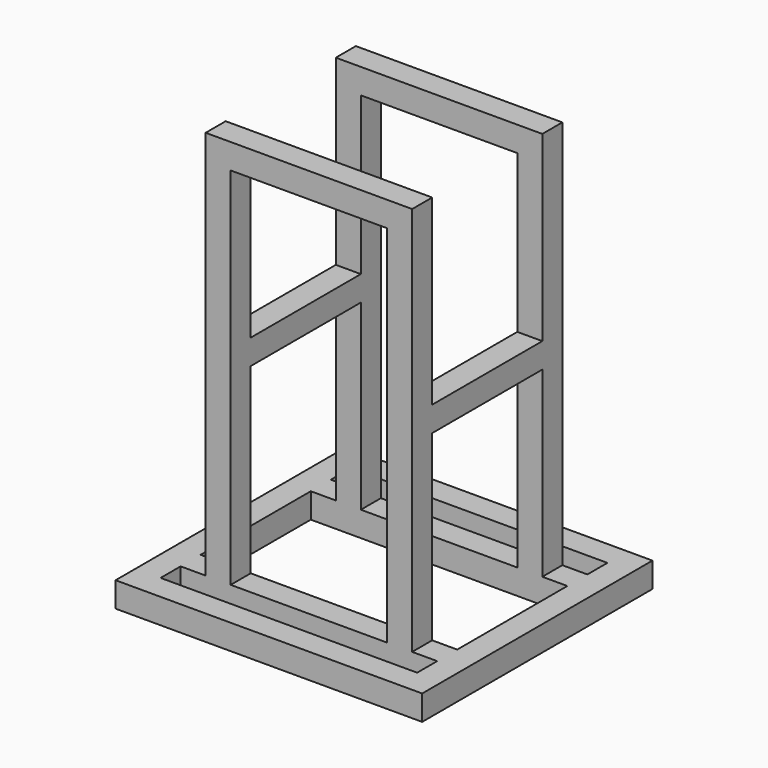
from build123d import *

# Parameters (mm, degrees)
F0_W     = 490
F0_H     = 460
F0_W_2   = 410
F0_H_2   = 40
F1_DEPTH = 40
F2_W     = 40
F2_H     = 40
F3_DEPTH = 623
F4_W     = 290
F4_H     = 40
F4_W_2   = 330
F5_DEPTH = 40
F6_W     = 220
F6_H     = 40
F7_DEPTH = 40
F8_W     = 220
F8_H     = 40
F9_DEPTH = 40


with BuildPart() as f1:
    # F0 (on Top) → F1 (new body)
    with BuildSketch(Plane.XY):
        Rectangle(F0_W, F0_H)
        Polygon((205, -150), (205, -190), (-205, -190), (-205, -150), (-205, -110), (-205, 110), (-205, 150), (-205, 190), (205, 190), (205, 150), (205, 110), (205, -110), align=None, mode=Mode.SUBTRACT)
        with Locations((0, 130)):
            Rectangle(F0_W_2, F0_H_2)
        with Locations((0, -130)):
            Rectangle(F0_W_2, F0_H_2)
    extrude(amount=F1_DEPTH)

    # F2 (on face) → F3 (join)
    with BuildSketch(Plane.XY.offset(40)):
        with Locations((-145, 130)):
            Rectangle(F2_W, F2_H)
        with Locations((145, 130)):
            Rectangle(F2_W, F2_H)
        with Locations((145, -130)):
            Rectangle(F2_W, F2_H)
        with Locations((-145, -130)):
            Rectangle(F2_W, F2_H)
    extrude(amount=F3_DEPTH)

    # F4 (on face) → F5 (join)
    with BuildSketch(Plane.XY.offset(663)):
        with Locations((-20, 130)):
            Rectangle(F4_W, F4_H)
        with Locations((0, -130)):
            Rectangle(F4_W_2, F4_H)
    extrude(amount=-F5_DEPTH)

    # F6 (on face) → F7 (join)
    with BuildSketch(Plane.YZ.offset(165)):
        with Locations((0, 351.5)):
            Rectangle(F6_W, F6_H)
    extrude(amount=-F7_DEPTH)

    # F8 (on face) → F9 (join)
    with BuildSketch(Plane(origin=(-165, 0, 0), x_dir=(0, -1, 0), z_dir=(-1, 0, 0))):
        with Locations((0, 351.5)):
            Rectangle(F8_W, F8_H)
    extrude(amount=-F9_DEPTH)


solid = f1.part
